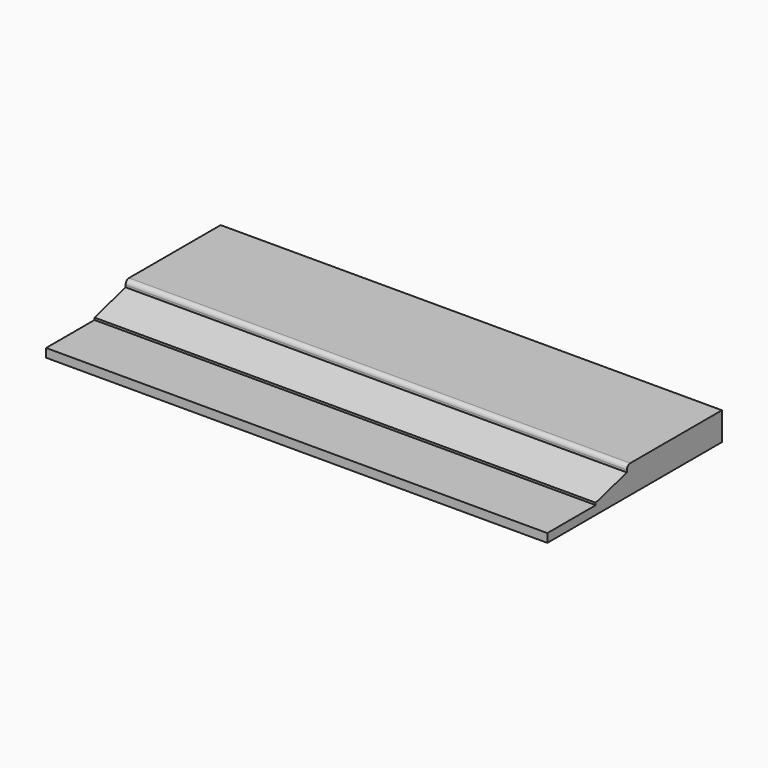
from build123d import *

# Parameters (mm, degrees)
F1_DEPTH = 116
F2_R     = 1


with BuildPart() as f1:
    # F0 (on Right) → F1 (new body)
    with BuildSketch(Plane.YZ):
        Polygon((-49.236286, 2), (-49.236286, 0), (1.263714, 0), (1.263714, 6.5), (-26.236286, 6.5), (-26.236286, 5), (-35.236286, 2.5), (-35.236286, 2), align=None)
    extrude(amount=F1_DEPTH)

    # F2
    f2_edges = [f1.edges().sort_by_distance(p)[0] for p in [
        (58, -26.236286, 6.5),
    ]]
    fillet(f2_edges, radius=F2_R)


solid = f1.part
